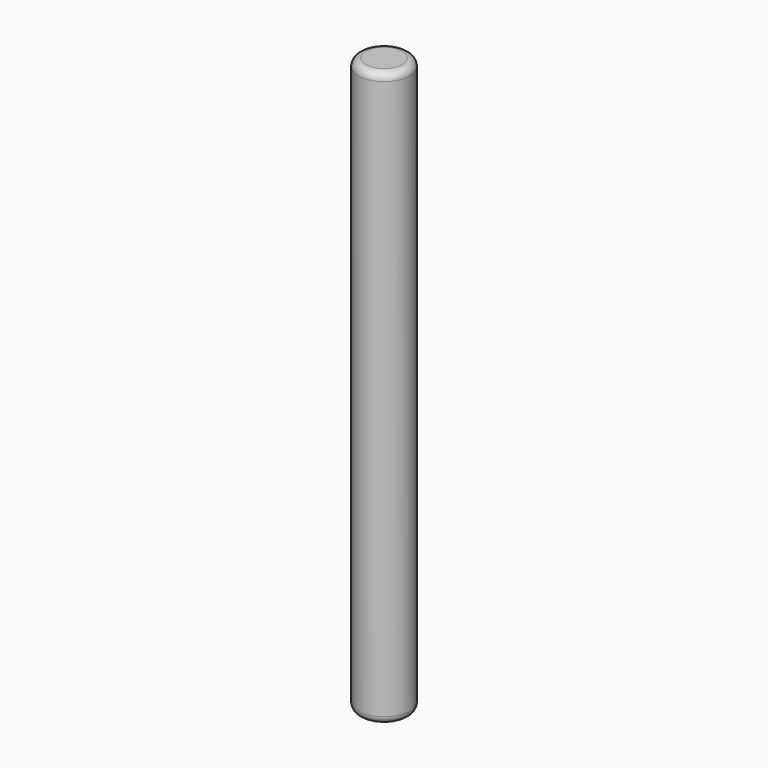
from build123d import *

# Parameters (mm, degrees)
F0_R      = 21.59
F1_DEPTH  = 482.6
F2_R      = 6.35
F3_R      = 6.35
F1_FACE_R = 15.24
F4_DEPTH  = 469.9


with BuildPart() as f1:
    # F0 (on Top) → F1 (new body)
    with BuildSketch(Plane.XY):
        Circle(F0_R)
    extrude(amount=F1_DEPTH)

    # F2
    f2_edges = [f1.edges().sort_by_distance(p)[0] for p in [
        (-21.59, 0, 0),
    ]]
    fillet(f2_edges, radius=F2_R)

    # F3
    f3_edges = [f1.edges().sort_by_distance(p)[0] for p in [
        (-21.59, 0, 482.6),
    ]]
    fillet(f3_edges, radius=F3_R)

    # F1_face (on face) → F4 (cut)
    with BuildSketch(Plane(origin=(0, 0, 0), x_dir=(1, 0, 0), z_dir=(0, 0, -1))):
        Circle(F1_FACE_R)
    extrude(amount=-F4_DEPTH, mode=Mode.SUBTRACT)


solid = f1.part
